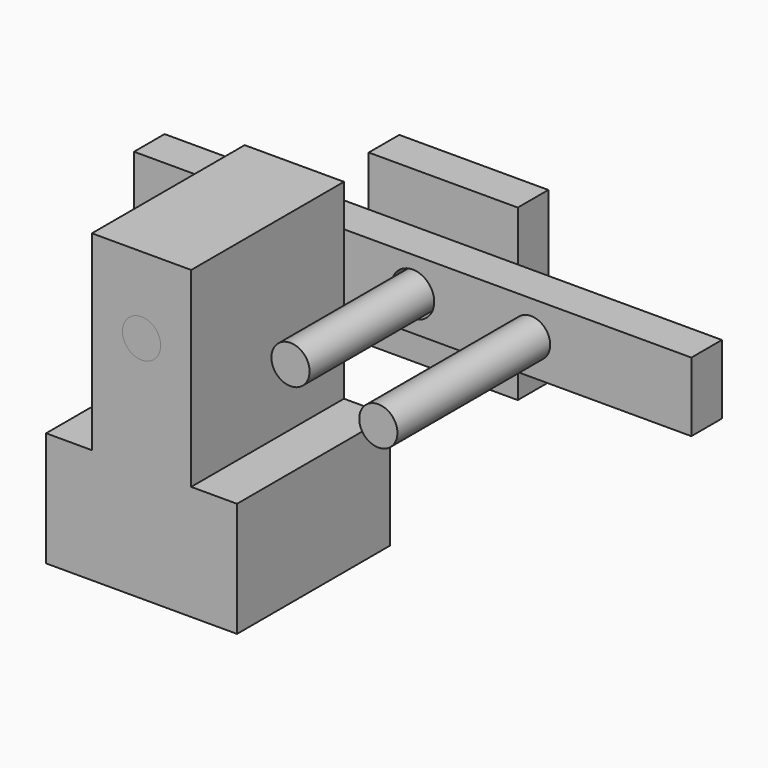
from build123d import *

# Parameters (mm, degrees)
F0_W      = 25
F0_H      = 30
F1_DEPTH  = 25
F2_DEPTH  = 10
F3_R      = 2.5
F4_DEPTH  = 25
F5_W      = 72.9725211859
F5_H      = 9.0611493215
F6_DEPTH  = 5
F7_R      = 2.5
F8_DEPTH  = 25
F9_R      = 2.8211111783
F10_DEPTH = 25
F11_W     = 19.5124316961
F11_H     = 22.1939049661
F12_DEPTH = 5
F13_R     = 2.5
F14_DEPTH = 25
F15_W     = 6
F15_H     = 25
F16_DEPTH = 25


with BuildPart() as f1:
    # F0 (on Front) → F1 (new body)
    with BuildSketch(Plane.XZ):
        with Locations((-15.5, -15)):
            Rectangle(F0_W, F0_H)
    extrude(amount=F1_DEPTH)

    # F2 (add): a face of the model
    f2_faces = [f1.faces().sort_by_distance(p)[0] for p in [
        (-15.5, -12.5, 0),
    ]]
    extrude(f2_faces, amount=F2_DEPTH)

    # F3 (on face) → F4 (cut)
    with BuildSketch(Plane.XZ.offset(25)):
        with Locations((-15.5, 0)):
            Circle(F3_R)
    extrude(amount=-F4_DEPTH, mode=Mode.SUBTRACT)

    # F15 (on face) → F16 (cut)
    with BuildSketch(Plane.XZ.offset(25)):
        with Locations((-25, -2.5)):
            Rectangle(F15_W, F15_H)
        with Locations((-6, -2.5)):
            Rectangle(F15_W, F15_H)
    extrude(amount=-F16_DEPTH, mode=Mode.SUBTRACT)


with BuildPart() as f6:
    # F5 (on Front) → F6 (new body)
    with BuildSketch(Plane.XZ):
        Rectangle(F5_W, F5_H)
    extrude(amount=-F6_DEPTH)

    # F7 (on face) → F8 (join)
    with BuildSketch(Plane.XZ):
        with Locations((-15.5, 0)):
            Circle(F7_R)
        with Locations((15.5, 0)):
            Circle(F7_R)
    extrude(amount=F8_DEPTH)

    # F9 (on face) → F10 (cut)
    with BuildSketch(Plane.XZ):
        Circle(F9_R)
    extrude(amount=-F10_DEPTH, mode=Mode.SUBTRACT)


with BuildPart() as f12:
    # F11 (on face) → F12 (new body)
    with BuildSketch(Plane(origin=(0, 5, 0), x_dir=(-1, 0, 0), z_dir=(0, 1, 0))):
        Rectangle(F11_W, F11_H)
    extrude(amount=F12_DEPTH)

    # F13 (on face) → F14 (join)
    with BuildSketch(Plane.XZ.offset(-5)):
        Circle(F13_R)
    extrude(amount=F14_DEPTH)


solid = Compound([f1.part, f6.part, f12.part])
